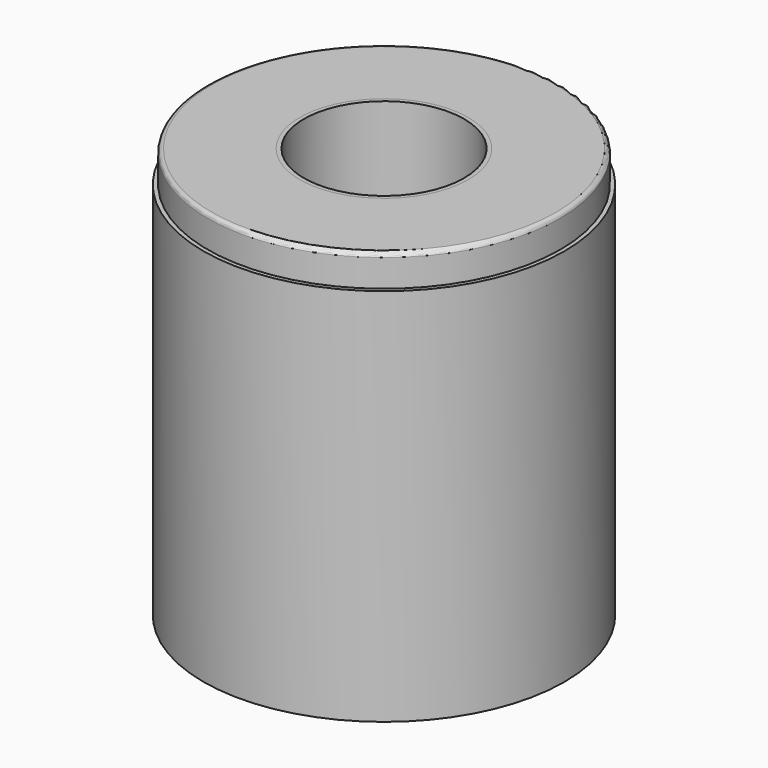
from build123d import *

# Parameters (mm, degrees)
F0_R     = 42.545
F0_R_2   = 20.32
F1_DEPTH = 99.06
F2_R     = 1
F0_R_3   = 19.32
F3_DEPTH = 99.06
F0_R_4   = 43.545
F4_DEPTH = 91.44


with BuildPart() as f1:
    # F0 (on Top) → F1 (new body)
    with BuildSketch(Plane.XY):
        Circle(F0_R)
        Circle(F0_R_2, mode=Mode.SUBTRACT)
    extrude(amount=F1_DEPTH)

    # F2
    f2_edges = [f1.edges().sort_by_distance(p)[0] for p in [
        (-42.545, 0, 99.06),
    ]]
    fillet(f2_edges, radius=F2_R)


with BuildPart() as f3:
    # F0 (on Top) → F3 (new body)
    with BuildSketch(Plane.XY):
        Circle(F0_R_2)
        Circle(F0_R_3, mode=Mode.SUBTRACT)
    extrude(amount=F3_DEPTH)


with BuildPart() as f4:
    # F0 (on Top) → F4 (new body)
    with BuildSketch(Plane.XY):
        Circle(F0_R_4)
        Circle(F0_R, mode=Mode.SUBTRACT)
    extrude(amount=F4_DEPTH)


solid = Compound([f1.part, f3.part, f4.part])
